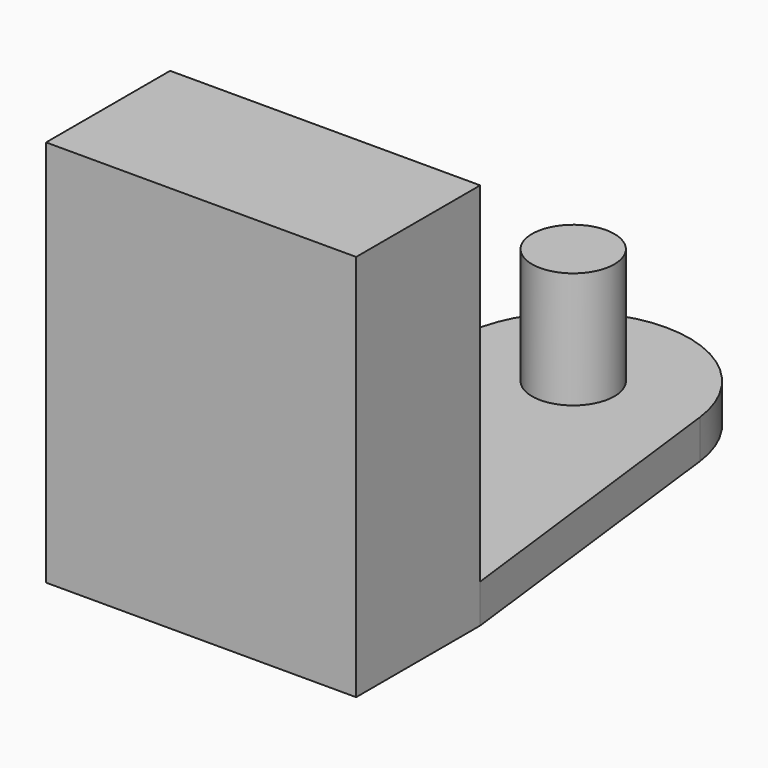
from build123d import *

# Parameters (mm, degrees)
F0_R     = 6.7437
F1_DEPTH = 6.35
F2_W     = 50.8
F2_H     = 57.15
F2_H_2   = 6.35
F3_DEPTH = 25.4
F4_R     = 6.7437
F5_DEPTH = 25.4


with BuildPart() as f1:
    # F0 (on Top) → F1 (new body)
    with BuildSketch(Plane.XY):
        with BuildLine():
            Line((25.4, -50.8), (18.909315, 2.310908))
            ThreePointArc((18.909315, 2.310908), (0, 19.05), (-18.909315, 2.310908))
            Line((-18.909315, 2.310908), (-25.4, -50.8))
            Line((-25.4, -50.8), (25.4, -50.8))
        make_face()
        Circle(F0_R, mode=Mode.SUBTRACT)
    extrude(amount=F1_DEPTH)


with BuildPart() as f3:
    # F2 (on face) → F3 (new body)
    with BuildSketch(Plane.XZ.offset(50.8)):
        with Locations((0, 34.925)):
            Rectangle(F2_W, F2_H)
        with Locations((0, 3.175)):
            Rectangle(F2_W, F2_H_2)
    extrude(amount=F3_DEPTH)


with BuildPart() as f5:
    # F4 (on face) → F5 (new body)
    with BuildSketch(Plane(origin=(0, 0, 0), x_dir=(1, 0, 0), z_dir=(0, 0, -1))):
        Circle(F4_R)
    extrude(amount=-F5_DEPTH)


solid = Compound([f1.part, f3.part, f5.part])
